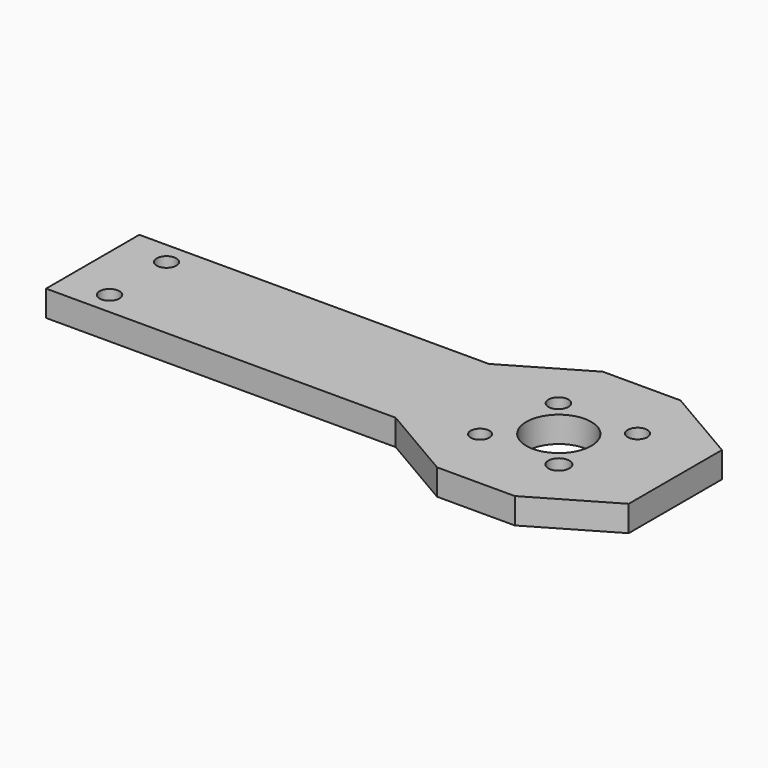
from build123d import *

# Parameters (mm, degrees)
F0_R     = 1.539144
F0_R_2   = 1.452362
F0_R_3   = 1.631379
F0_R_4   = 1.528566
F0_R_5   = 1.549722
F0_R_6   = 5.024672
F0_R_7   = 1.528565
F1_DEPTH = 4


with BuildPart() as f1:
    # F0 (on Top) → F1 (new body)
    with BuildSketch(Plane.XY):
        Polygon((18.500502, 18), (-35.499498, 18), (-35.499498, 0), (18.500502, 0), (30.500502, -7), (42.500502, -7), (54.500502, 0), (54.500502, 18), (42.500502, 25), (30.500502, 25), align=None)
        with Locations((-28.499498, 3.5)):
            Circle(F0_R, mode=Mode.SUBTRACT)
        with Locations((29.135042, 3)):
            Circle(F0_R_2, mode=Mode.SUBTRACT)
        with Locations((41.504552, 2.758247)):
            Circle(F0_R_3, mode=Mode.SUBTRACT)
        with Locations((-28.499498, 14.5)):
            Circle(F0_R_4, mode=Mode.SUBTRACT)
        with Locations((31.46798, 15.21882)):
            Circle(F0_R_5, mode=Mode.SUBTRACT)
        with Locations((36.500502, 9)):
            Circle(F0_R_6, mode=Mode.SUBTRACT)
        with Locations((43.865962, 15)):
            Circle(F0_R_7, mode=Mode.SUBTRACT)
    extrude(amount=F1_DEPTH)


solid = f1.part
